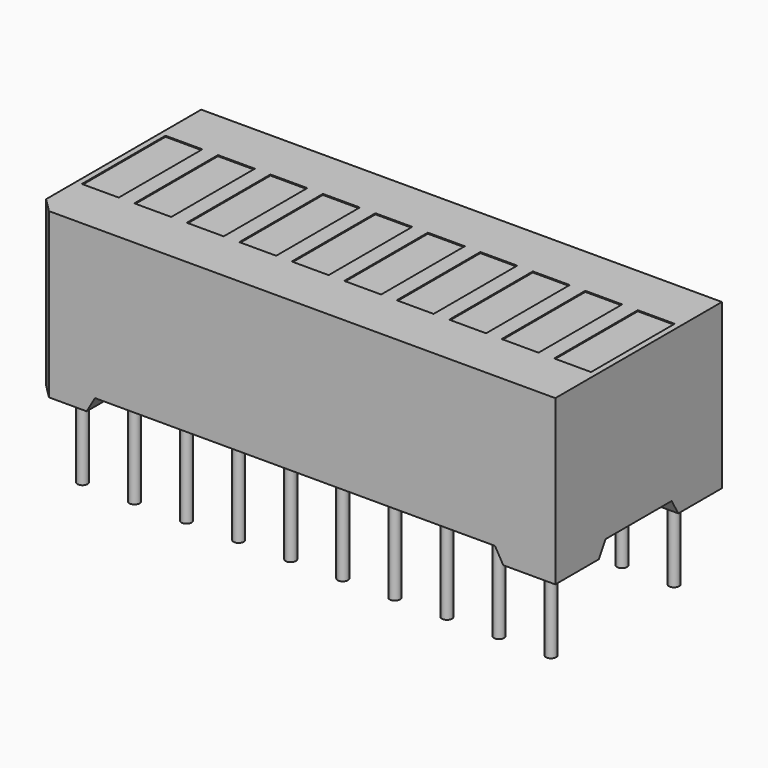
from build123d import *

# Parameters (mm, degrees)
SKETCH_W        = 25.4
SKETCH_H        = 10.16
PAD_DEPTH       = 8
SKETCH001_W     = 1.8
SKETCH001_H     = 5.1
POCKET_DEPTH    = 0.05
CHAMFER_SIZE    = 0.7
POCKET001_DEPTH = 10.161
POCKET002_DEPTH = 25.401
SKETCH004_R     = 0.25
PAD001_DEPTH    = 4.7


with BuildPart() as part:
    # Sketch → Pad (new body)
    with BuildSketch(Plane.XY):
        Rectangle(SKETCH_W, SKETCH_H)
    extrude(amount=PAD_DEPTH)

    # Sketch001 (on Face6 of Pad) → Pocket (cut)
    with BuildSketch(Plane.XY.offset(8)):
        with Locations((-11.52, 0)):
            Rectangle(SKETCH001_W, SKETCH001_H)
        with Locations((-6.4, 0)):
            Rectangle(SKETCH001_W, SKETCH001_H)
        with Locations((-3.84, 0)):
            Rectangle(SKETCH001_W, SKETCH001_H)
        with Locations((-1.28, 0)):
            Rectangle(SKETCH001_W, SKETCH001_H)
        with Locations((1.28, 0)):
            Rectangle(SKETCH001_W, SKETCH001_H)
        with Locations((3.84, 0)):
            Rectangle(SKETCH001_W, SKETCH001_H)
        with Locations((6.4, 0)):
            Rectangle(SKETCH001_W, SKETCH001_H)
        with Locations((8.96, 0)):
            Rectangle(SKETCH001_W, SKETCH001_H)
        with Locations((11.52, 0)):
            Rectangle(SKETCH001_W, SKETCH001_H)
        with Locations((-8.96, 0)):
            Rectangle(SKETCH001_W, SKETCH001_H)
    extrude(amount=-POCKET_DEPTH, mode=Mode.SUBTRACT)

    # Chamfer
    chamfer_edges = [part.edges().sort_by_distance(p)[0] for p in [
        (-12.7, -5.08, 4),
    ]]
    chamfer(chamfer_edges, length=CHAMFER_SIZE)

    # Sketch002 (on Face6 of Chamfer) → Pocket001 (cut, through all)
    with BuildSketch(Plane.XZ.offset(5.08)):
        Polygon((-10.16, 0), (-9.755855, 0.7), (9.755855, 0.7), (10.16, 0), align=None)
    extrude(amount=-POCKET001_DEPTH, mode=Mode.SUBTRACT)

    # Sketch003 (on Face11 of Pocket001) → Pocket002 (cut, through all)
    with BuildSketch(Plane.YZ.offset(12.7)):
        Polygon((-2.42, 0), (-2.015855, 0.7), (2.015855, 0.7), (2.42, 0), align=None)
    extrude(amount=-POCKET002_DEPTH, mode=Mode.SUBTRACT)

    # Sketch004 (on Face58 of Pocket002) → Pad001 (join)
    with BuildSketch(Plane(origin=(0, 0, 0.7), x_dir=(1, 0, 0), z_dir=(0, 0, -1))):
        with Locations((-11.43, 3.75)):
            Circle(SKETCH004_R)
        with Locations((-8.89, 3.75)):
            Circle(SKETCH004_R)
        with Locations((-6.35, 3.75)):
            Circle(SKETCH004_R)
        with Locations((-3.81, 3.75)):
            Circle(SKETCH004_R)
        with Locations((-1.27, 3.75)):
            Circle(SKETCH004_R)
        with Locations((1.27, 3.75)):
            Circle(SKETCH004_R)
        with Locations((3.81, 3.75)):
            Circle(SKETCH004_R)
        with Locations((6.35, 3.75)):
            Circle(SKETCH004_R)
        with Locations((8.89, 3.75)):
            Circle(SKETCH004_R)
        with Locations((11.43, 3.75)):
            Circle(SKETCH004_R)
        with Locations((-11.43, -3.75)):
            Circle(SKETCH004_R)
        with Locations((-8.89, -3.75)):
            Circle(SKETCH004_R)
        with Locations((-6.35, -3.75)):
            Circle(SKETCH004_R)
        with Locations((-3.81, -3.75)):
            Circle(SKETCH004_R)
        with Locations((-1.27, -3.75)):
            Circle(SKETCH004_R)
        with Locations((1.27, -3.75)):
            Circle(SKETCH004_R)
        with Locations((3.81, -3.75)):
            Circle(SKETCH004_R)
        with Locations((6.35, -3.75)):
            Circle(SKETCH004_R)
        with Locations((8.89, -3.75)):
            Circle(SKETCH004_R)
        with Locations((11.43, -3.75)):
            Circle(SKETCH004_R)
    extrude(amount=PAD001_DEPTH)


solid = part.part
